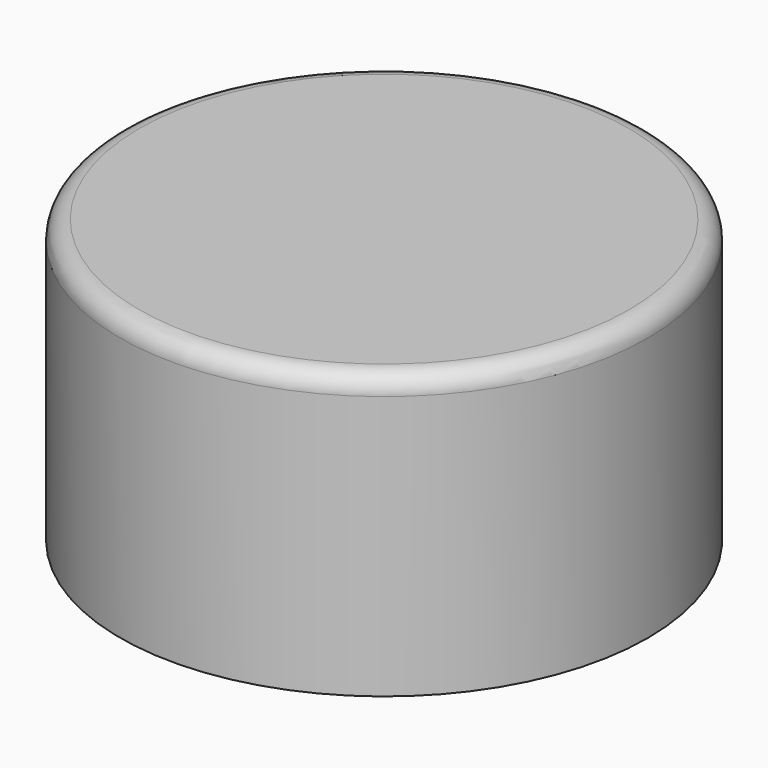
from build123d import *

# Parameters (mm, degrees)
CYLINDER033_R     = 1.7
CYLINDER033_DEPTH = 8.5
CYLINDER036_R     = 5
CYLINDER036_DEPTH = 5.5
CHAMFER008_SIZE   = 2
CYLINDER031_R     = 3
CYLINDER031_DEPTH = 22.5
CYLINDER034_R     = 1.7
CYLINDER034_DEPTH = 8.5
CYLINDER035_R     = 5
CYLINDER035_DEPTH = 5.5
CHAMFER009_SIZE   = 2
CYLINDER032_R     = 3
CYLINDER032_DEPTH = 22.5
CYLINDER029_R     = 26.7
CYLINDER029_DEPTH = 30
CYLINDER030_R     = 28
CYLINDER030_DEPTH = 30
FILLET002_R       = 2
CHAMFER010_SIZE   = 1


with BuildPart() as obj1:
    # Cylinder033 → Cylinder033 (new body)
    with BuildSketch(Plane(origin=(2.2, 8, -3.4), x_dir=(1, 0, 0), z_dir=(0, 0, 1))):
        Circle(CYLINDER033_R)
    extrude(amount=CYLINDER033_DEPTH)


with BuildPart() as chamfer008:
    # Cylinder036 → Cylinder036 (new body)
    with BuildSketch(Plane(origin=(2.2, 8, -0.9), x_dir=(1, 0, 0), z_dir=(0, 0, 1))):
        Circle(CYLINDER036_R)
    extrude(amount=CYLINDER036_DEPTH)

    # Chamfer008
    chamfer008_edges = [chamfer008.edges().sort_by_distance(p)[0] for p in [
        (-2.8, 8, 4.6),
    ]]
    chamfer(chamfer008_edges, length=CHAMFER008_SIZE)


with BuildPart() as obj2:
    # Cylinder031 → Cylinder031 (new body)
    with BuildSketch(Plane(origin=(2.2, 8, -2.8), x_dir=(1, 0, 0), z_dir=(0, 0, 1))):
        Circle(CYLINDER031_R)
    extrude(amount=CYLINDER031_DEPTH)

    # Fusion003: union Chamfer008
    add(chamfer008.part)

    # Cut017: cut obj1
    add(obj1.part, mode=Mode.SUBTRACT)


with BuildPart() as obj3:
    # Cylinder034 → Cylinder034 (new body)
    with BuildSketch(Plane(origin=(-29.1, 29.1, -3.4), x_dir=(1, 0, 0), z_dir=(0, 0, 1))):
        Circle(CYLINDER034_R)
    extrude(amount=CYLINDER034_DEPTH)


with BuildPart() as chamfer009:
    # Cylinder035 → Cylinder035 (new body)
    with BuildSketch(Plane(origin=(-29.1, 29.1, -0.9), x_dir=(1, 0, 0), z_dir=(0, 0, 1))):
        Circle(CYLINDER035_R)
    extrude(amount=CYLINDER035_DEPTH)

    # Chamfer009
    chamfer009_edges = [chamfer009.edges().sort_by_distance(p)[0] for p in [
        (-34.1, 29.1, 4.6),
    ]]
    chamfer(chamfer009_edges, length=CHAMFER009_SIZE)


with BuildPart() as obj4:
    # Cylinder032 → Cylinder032 (new body)
    with BuildSketch(Plane(origin=(-29.1, 29.1, -2.8), x_dir=(1, 0, 0), z_dir=(0, 0, 1))):
        Circle(CYLINDER032_R)
    extrude(amount=CYLINDER032_DEPTH)

    # Fusion004: union Chamfer009
    add(chamfer009.part)

    # Cut018: cut obj3
    add(obj3.part, mode=Mode.SUBTRACT)


with BuildPart() as base_exterior_vaciado002:
    # Cylinder029 → Cylinder029 (new body)
    with BuildSketch(Plane(origin=(-12.5, 19, -10.6), x_dir=(1, 0, 0), z_dir=(0, 0, 1))):
        Circle(CYLINDER029_R)
    extrude(amount=CYLINDER029_DEPTH)


with BuildPart() as obj5:
    # Cylinder030 → Cylinder030 (new body)
    with BuildSketch(Plane(origin=(-12.5, 19, -10), x_dir=(1, 0, 0), z_dir=(0, 0, 1))):
        Circle(CYLINDER030_R)
    extrude(amount=CYLINDER030_DEPTH)

    # Cut016: cut base exterior vaciado002
    add(base_exterior_vaciado002.part, mode=Mode.SUBTRACT)

    # Fillet002
    fillet002_edges = [obj5.edges().sort_by_distance(p)[0] for p in [
        (-40.5, 19, 20),
    ]]
    fillet(fillet002_edges, radius=FILLET002_R)

    # Fusion005: union obj2, obj4
    add(obj2.part)
    add(obj4.part)

    # Chamfer010
    chamfer010_edges = [obj5.edges().sort_by_distance(p)[0] for p in [
        (-0.8, 8, 19.4),
        (-32.1, 29.1, 19.4),
    ]]
    chamfer(chamfer010_edges, length=CHAMFER010_SIZE)


solid = obj5.part
